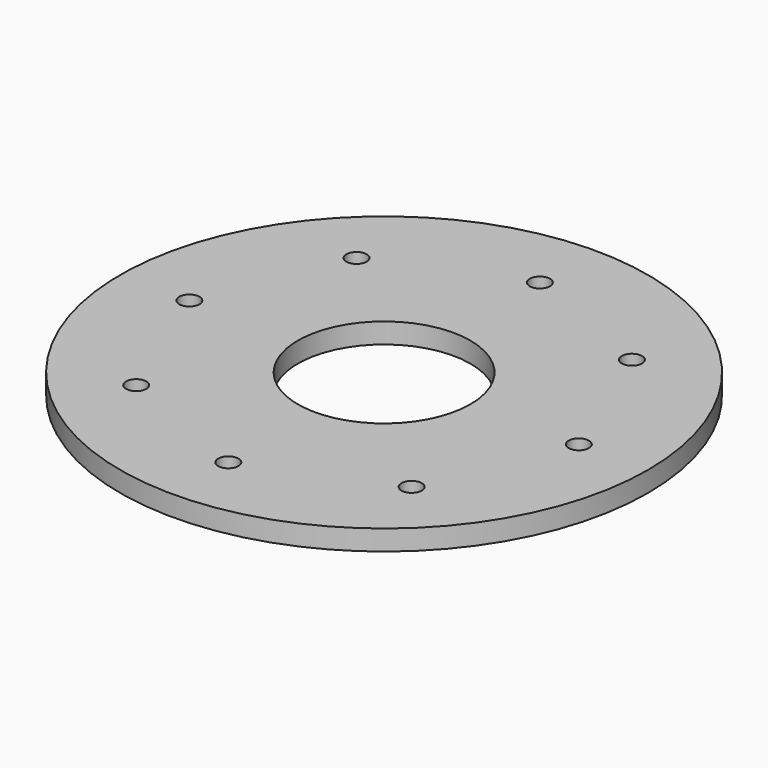
from build123d import *

# Parameters (mm, degrees)
F0_R     = 13
F0_R_2   = 0.5
F0_R_3   = 4.25
F1_DEPTH = 1


with BuildPart() as f1:
    # F0 (on Top) → F1 (new body)
    with BuildSketch(Plane.XY):
        Circle(F0_R)
        with Locations((-6.781706, -6.781706)):
            Circle(F0_R_2, mode=Mode.SUBTRACT)
        with Locations((0, -9.59078)):
            Circle(F0_R_2, mode=Mode.SUBTRACT)
        with Locations((6.781706, -6.781706)):
            Circle(F0_R_2, mode=Mode.SUBTRACT)
        with Locations((-9.59078, 0)):
            Circle(F0_R_2, mode=Mode.SUBTRACT)
        with Locations((-6.781706, 6.781706)):
            Circle(F0_R_2, mode=Mode.SUBTRACT)
        Circle(F0_R_3, mode=Mode.SUBTRACT)
        with Locations((9.59078, 0)):
            Circle(F0_R_2, mode=Mode.SUBTRACT)
        with Locations((0, 9.59078)):
            Circle(F0_R_2, mode=Mode.SUBTRACT)
        with Locations((6.781706, 6.781706)):
            Circle(F0_R_2, mode=Mode.SUBTRACT)
    extrude(amount=F1_DEPTH)


solid = f1.part
